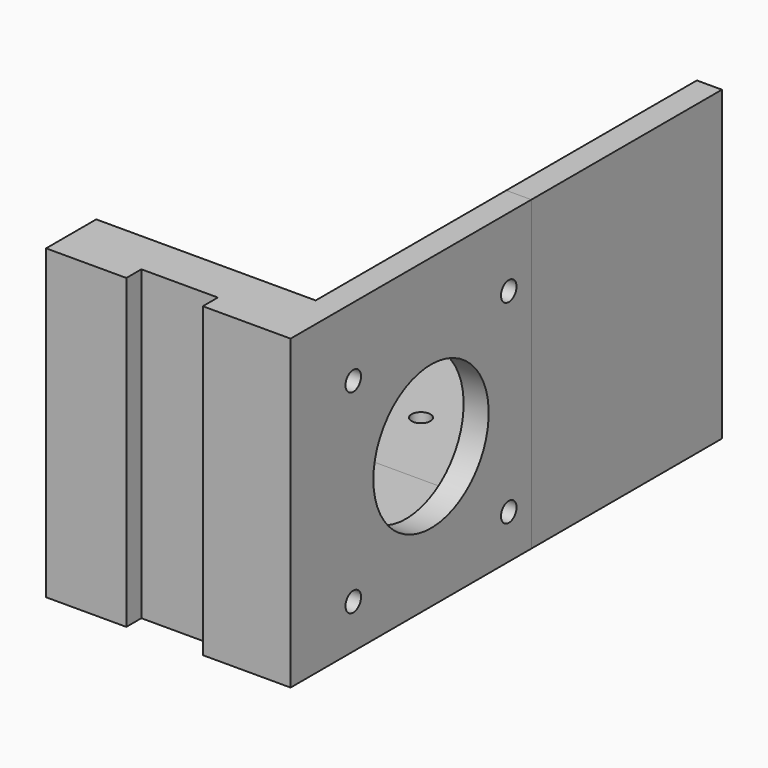
from build123d import *

# Parameters (mm, degrees)
F1_DEPTH  = 38
F2_R      = 1.5
F3_DEPTH  = 25
F4_R      = 1.55
F4_R_2    = 11.5
F6_DEPTH  = 4.001
F7_W      = 39
F7_H      = 49
F8_DEPTH  = 10
F9_W      = 12.2
F9_H      = 3
F10_DEPTH = 49.001


with BuildPart() as f1:
    # F0 (on Front) → F1 (new body)
    with BuildSketch(Plane.XZ):
        Polygon((0, 4), (0, 0), (39, 0), (39, 25), (39, 49), (35, 49), (35, 23), (35, 4), align=None)
    extrude(amount=F1_DEPTH)

    # F2 (on face) → F3 (cut)
    with BuildSketch(Plane(origin=(0, 0, 0), x_dir=(1, 0, 0), z_dir=(0, 0, -1))):
        with Locations((11, 13)):
            Circle(F2_R)
        with Locations((31, 13)):
            Circle(F2_R)
        with Locations((11, 33)):
            Circle(F2_R)
        with Locations((31, 33)):
            Circle(F2_R)
    extrude(amount=-F3_DEPTH, mode=Mode.SUBTRACT)


with BuildPart() as f5_1:
    # F5: instance of F1
    add(f1.part.mirror(Plane.XZ))


with BuildPart() as f1_1:
    add(f1.part)

    # F4 (on face) → F6 (cut, through all)
    with BuildSketch(Plane(origin=(35, 0, 0), x_dir=(0, -1, 0), z_dir=(-1, 0, 0))):
        with Locations((4.5, 38)):
            Circle(F4_R)
        with Locations((35.5, 38)):
            Circle(F4_R)
        with Locations((4.5, 7)):
            Circle(F4_R)
        with Locations((35.5, 7)):
            Circle(F4_R)
        with Locations((20, 22.5)):
            Circle(F4_R_2)
    extrude(amount=-F6_DEPTH, mode=Mode.SUBTRACT)

    # F7 (on face) → F8 (join)
    with BuildSketch(Plane.XZ.offset(38)):
        with Locations((19.5, 24.5)):
            Rectangle(F7_W, F7_H)
    extrude(amount=F8_DEPTH)

    # F9 (on face) → F10 (cut, through all)
    with BuildSketch(Plane.XY.offset(49)):
        with Locations((18.9, -46.5)):
            Rectangle(F9_W, F9_H)
    extrude(amount=-F10_DEPTH, mode=Mode.SUBTRACT)


solid = Compound([f5_1.part, f1_1.part])
